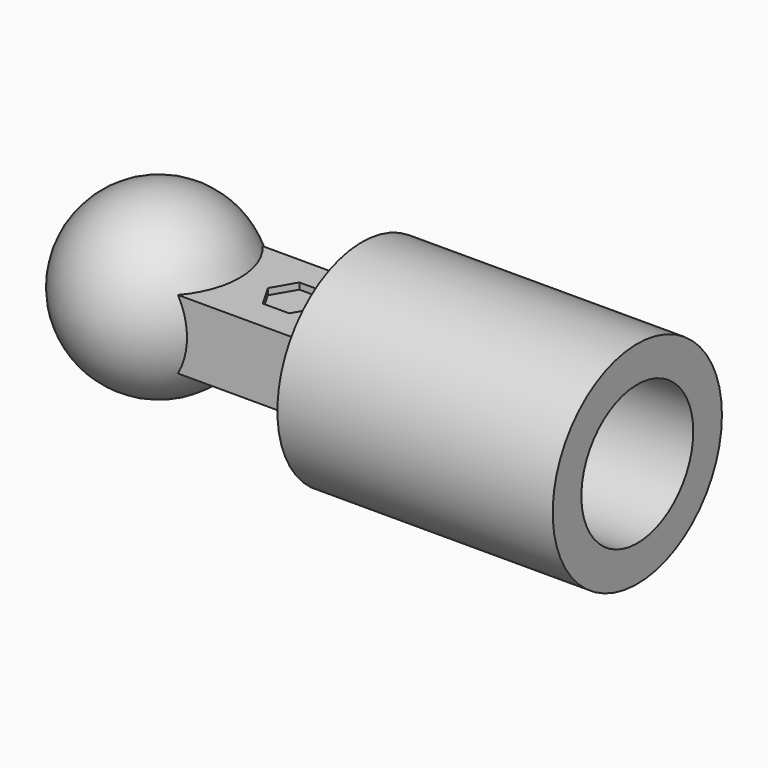
from build123d import *

# Parameters (mm, degrees)
PAD_DEPTH       = 0.245
POCKET_DEPTH    = 0.05
SKETCH004_R     = 0.75
PAD001_DEPTH    = 10.08525
SKETCH005_R     = 3
HOLE_DEPTH      = 26
SKETCH006_R     = 0.495763
POCKET001_DEPTH = 9.580987
SKETCH007_W     = 15
SKETCH007_H     = 15
POCKET002_DEPTH = 8.1338


with BuildPart() as part:
    # Sketch → Pad (new body, symmetric)
    with BuildSketch(Plane.XY):
        with BuildLine():
            Line((0, 0.375), (19.21, 0.375))
            ThreePointArc((19.21, -0.375), (19.585, 0), (19.21, 0.375))
            Line((19.21, -0.375), (0, -0.375))
            ThreePointArc((0, 0.375), (-0.375, 0), (0, -0.375))
        make_face()
    extrude(amount=PAD_DEPTH, both=True)

    # Sketch001 → Revolution (revolve)
    with BuildSketch(Plane.XY):
        with BuildLine():
            Line((0, 0.625), (0, 0))
            Line((0, 0), (0, -0.625))
            ThreePointArc((0, 0.625), (-0.625, 0), (0, -0.625))
        make_face()
    revolve(axis=Axis((0, 0, 0), (0, -1, 0)))

    # Sketch002 → Revolution001 (revolve)
    with BuildSketch(Plane.XY):
        with BuildLine():
            ThreePointArc((19.21, -0.625), (19.835, 0), (19.21, 0.625))
            Line((19.21, 0.625), (19.21, 0))
            Line((19.21, 0), (19.21, -0.625))
        make_face()
    revolve(axis=Axis((19.21, 0, 0), (0, -1, 0)))

    # Sketch003 (on DatumPlane) → Pocket (cut)
    with BuildSketch(Plane.XY.offset(0.25)):
        Polygon((1.05425, -0.16238), (1.148, 0), (1.05425, 0.16238), (0.86675, 0.16238), (0.773, 0), (0.86675, -0.16238), align=None)
    extrude(amount=-POCKET_DEPTH, mode=Mode.SUBTRACT)

    # Sketch004 (on DatumPlane) → Pad001 (join)
    with BuildSketch(Plane.YZ.offset(11.526)):
        Circle(SKETCH004_R)
    extrude(amount=-PAD001_DEPTH)

    # Sketch005 (on DatumPlane) → Hole (cut)
    with BuildSketch(Plane.YZ.offset(11.526)):
        Circle(SKETCH005_R)
    extrude(amount=HOLE_DEPTH, mode=Mode.SUBTRACT)

    # Sketch006 (on DatumPlane) → Pocket001 (cut)
    with BuildSketch(Plane.YZ.offset(11.526)):
        Circle(SKETCH006_R)
    extrude(amount=-POCKET001_DEPTH, mode=Mode.SUBTRACT)

    # Sketch007 (on DatumPlane) → Pocket002 (cut, through all)
    with BuildSketch(Plane.YZ.offset(3.3932)):
        Rectangle(SKETCH007_W, SKETCH007_H)
    extrude(amount=POCKET002_DEPTH, mode=Mode.SUBTRACT)


solid = part.part
